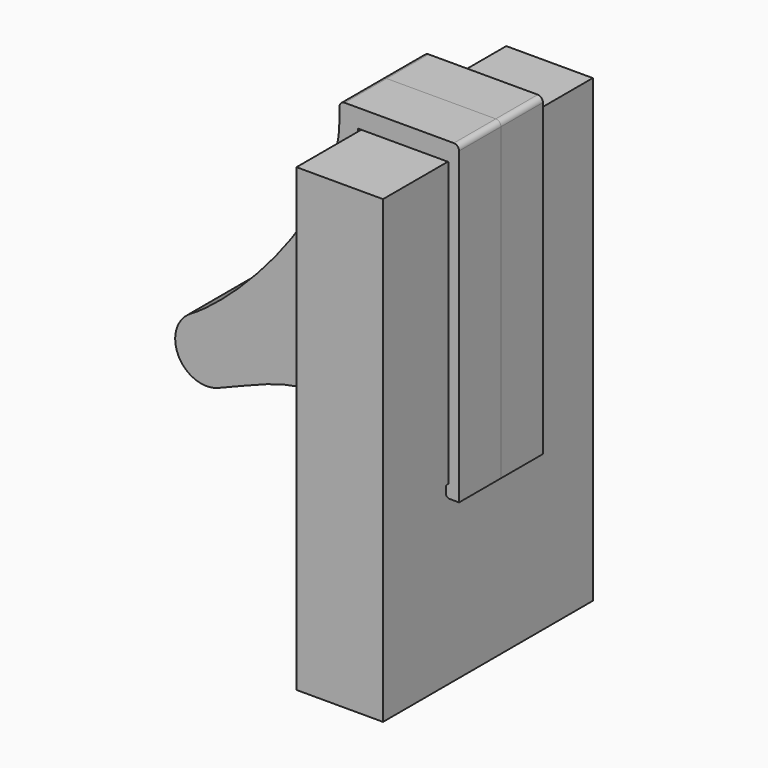
from build123d import *

# Parameters (mm, degrees)
F0_W          = 16.5
F0_H          = 87.75664
F1_DEPTH      = 25
F1_DEPTH_BACK = 25
F3_DEPTH      = 10
F4_R          = 3.15
F5_DEPTH      = 7
F6_R          = 1
F8_R          = 3.9
F8_R_2        = 3.05
F9_DEPTH      = 12.5


with BuildPart() as f1:
    # F0 (on Front) → F1 (new body, two sides)
    with BuildSketch(Plane.XZ) as f1_sk:
        Rectangle(F0_W, F0_H)
    extrude(amount=F1_DEPTH)
    extrude(f1_sk.sketch, amount=-F1_DEPTH_BACK)


with BuildPart() as f3:
    # F2 (on Front) → F3 (new body)
    with BuildSketch(Plane.XZ):
        Polygon((-8.55, -2.32168), (-8.55, 44.17832), (8.75, 44.17832), (8.75, -9.865314), (8.75, -12.32168), (10.75, -12.32168), (10.75, 47.67832), (-12.05, 47.67832), (-12.05, 44.405476), (-12.05, -2.32168), align=None)
        with BuildLine():
            add(Edge.make_bspline(
                [(-12.05, -2.32168), (-22.723591, -2.32168), (-25.45882, -4.257001), (-35.205163, -8.047218)],
                knots=[0, 0, 0, 0, 23.852533, 23.852533, 23.852533, 23.852533], degree=3))
            Line((-12.05, -2.32168), (-12.05, 44.405476))
            add(Edge.make_bspline(
                [(-12.05, 44.405476), (-12.05, 28.805908), (-30.203268, 8.77412), (-40.439443, 2.706089)],
                knots=[0, 0, 0, 0, 50.446005, 50.446005, 50.446005, 50.446005], degree=3))
            ThreePointArc((-40.439443, 2.706089), (-34.409785, 2.758149), (-31.379827, -2.455185))
            ThreePointArc((-31.379827, -2.455185), (-32.427656, -5.84281), (-35.205163, -8.047218))
        make_face()
        with BuildLine():
            Line((8.75, -12.32168), (8.75, -9.865314))
            ThreePointArc((8.75, -9.865314), (8.021987, -11.093497), (8.75, -12.32168))
        make_face()
        with BuildLine():
            ThreePointArc((-40.439443, 2.706089), (-42.774656, -5.081173), (-35.205163, -8.047218))
            ThreePointArc((-35.205163, -8.047218), (-32.427656, -5.84281), (-31.379827, -2.455185))
            ThreePointArc((-31.379827, -2.455185), (-34.409785, 2.758149), (-40.439443, 2.706089))
        make_face()
    extrude(amount=F3_DEPTH)

    # F4 (on face) → F5 (cut)
    with BuildSketch(Plane(origin=(0, 0, 0), x_dir=(-1, 0, 0), z_dir=(0, 1, 0))):
        with Locations((37.379827, -2.455185)):
            Circle(F4_R)
    extrude(amount=-F5_DEPTH, mode=Mode.SUBTRACT)

    # F6
    f6_edges = [f3.edges().sort_by_distance(p)[0] for p in [
        (10.75, -5, 47.67832),
        (-12.05, -5, 47.67832),
    ]]
    fillet(f6_edges, radius=F6_R)


with BuildPart() as f7_1:
    # F7: instance of F3
    add(f3.part.mirror(Plane.XZ))


with BuildPart() as f9:
    # F8 (on Top) → F9 (new body)
    with BuildSketch(Plane.XY):
        Circle(F8_R)
        Circle(F8_R_2, mode=Mode.SUBTRACT)
    extrude(amount=F9_DEPTH)


solid = Compound([f1.part, f3.part, f7_1.part, f9.part])
